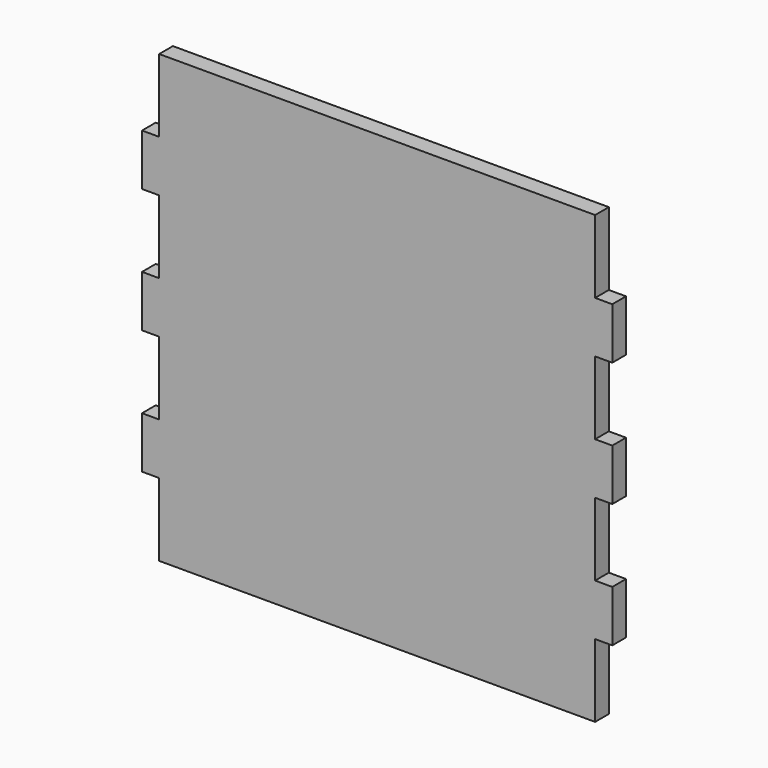
from build123d import *

# Parameters (mm, degrees)
F0_W     = 5
F0_H     = 15
F1_DEPTH = 5


with BuildPart() as f1:
    # F0 (on Front) → F1 (new body)
    with BuildSketch(Plane.XZ):
        Polygon((0, 21.25), (0, 0), (127, 0), (127, 21.25), (127, 36.25), (127, 57.5), (127, 72.5), (127, 93.75), (127, 108.75), (127, 130), (0, 130), (0, 108.75), (0, 93.75), (0, 72.5), (0, 57.5), (0, 36.25), align=None)
        with Locations((-2.5, 28.75)):
            Rectangle(F0_W, F0_H)
        with Locations((129.5, 28.75)):
            Rectangle(F0_W, F0_H)
        with Locations((-2.5, 65)):
            Rectangle(F0_W, F0_H)
        with Locations((129.5, 65)):
            Rectangle(F0_W, F0_H)
        with Locations((-2.5, 101.25)):
            Rectangle(F0_W, F0_H)
        with Locations((129.5, 101.25)):
            Rectangle(F0_W, F0_H)
    extrude(amount=F1_DEPTH)


solid = f1.part
